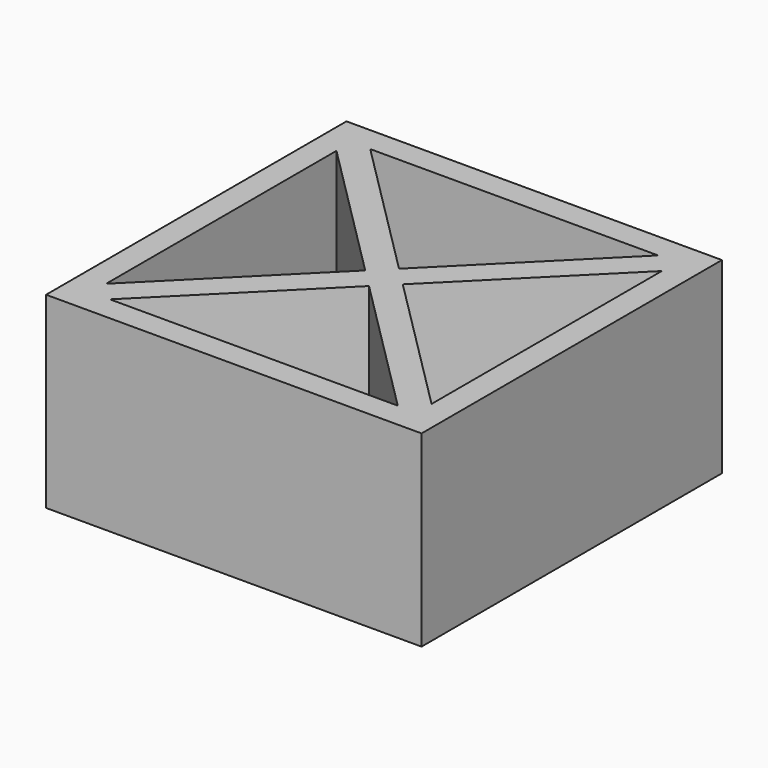
from build123d import *

# Parameters (mm, degrees)
SKETCH_W     = 15
SKETCH_H     = 15
PAD_DEPTH    = 7.5
POCKET_DEPTH = 7.501


with BuildPart() as part:
    # Sketch → Pad (new body)
    with BuildSketch(Plane.XY):
        with Locations((7.5, 7.5)):
            Rectangle(SKETCH_W, SKETCH_H)
    extrude(amount=PAD_DEPTH)

    # Sketch005 (on Face6 of Pad) → Pocket (cut, through all)
    with BuildSketch(Plane.XY.offset(7.5)):
        Polygon((1.75, 14), (13.25, 14), (7.5, 8.25), align=None)
        Polygon((1, 13.25), (6.75, 7.5), (1, 1.75), align=None)
        Polygon((1.75, 1), (7.5, 6.75), (13.25, 1), align=None)
        Polygon((8.25, 7.5), (14, 13.25), (14, 1.75), align=None)
    extrude(amount=-POCKET_DEPTH, mode=Mode.SUBTRACT)


solid = part.part
